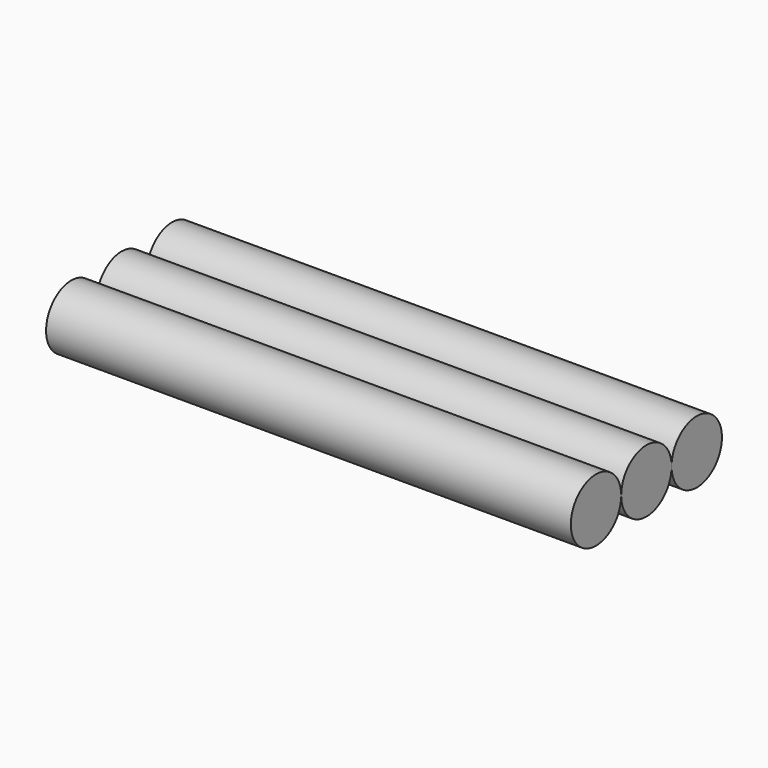
from build123d import *

# Parameters (mm, degrees)
CYLINDER002_R           = 0.6
CYLINDER002_DEPTH       = 10
CYLINDER002_PITCH_ANGLE = 90
CYLINDER_R              = 0.6
CYLINDER_DEPTH          = 10
CYLINDER_PITCH_ANGLE    = 90
CYLINDER001_R           = 0.6
CYLINDER001_DEPTH       = 10
CYLINDER001_PITCH_ANGLE = 90


with BuildPart() as obj1:
    # Cylinder002 → Cylinder002 (new body)
    with BuildSketch(Plane.XY):
        Circle(CYLINDER002_R)
    extrude(amount=CYLINDER002_DEPTH)


with BuildPart() as obj1_1:
    # Cylinder002 pitch: moved
    add(obj1.part.rotate(Axis((0, 0, 0), (0, 1, 0)), CYLINDER002_PITCH_ANGLE))


with BuildPart() as obj1_2:
    # Cylinder002 placement: moved
    add(obj1_1.part.moved(Location((0, -1.2, 0))))


with BuildPart() as white_wire:
    # Cylinder → Cylinder (new body)
    with BuildSketch(Plane.XY):
        Circle(CYLINDER_R)
    extrude(amount=CYLINDER_DEPTH)


with BuildPart() as white_wire_1:
    # Cylinder pitch: moved
    add(white_wire.part.rotate(Axis((0, 0, 0), (0, 1, 0)), CYLINDER_PITCH_ANGLE))


with BuildPart() as white_wire_2:
    # Cylinder placement: moved
    add(white_wire_1.part.moved(Location((0, 1.2, 0))))


with BuildPart() as servo_wires001:
    # Cylinder001 → Cylinder001 (new body)
    with BuildSketch(Plane.XY):
        Circle(CYLINDER001_R)
    extrude(amount=CYLINDER001_DEPTH)


with BuildPart() as servo_wires001_1:
    # Cylinder001 pitch: moved
    add(servo_wires001.part.rotate(Axis((0, 0, 0), (0, 1, 0)), CYLINDER001_PITCH_ANGLE))


with BuildPart() as servo_wires001_2:
    # Cylinder001 placement: moved
    add(servo_wires001_1.part)

    # Fusion005: union obj1, white-wire
    add(obj1_2.part)
    add(white_wire_2.part)


with BuildPart() as servo_wires001_3:
    # Fusion005 placement: moved
    add(servo_wires001_2.part.moved(Location((20, 0, 2.9))))


solid = servo_wires001_3.part
